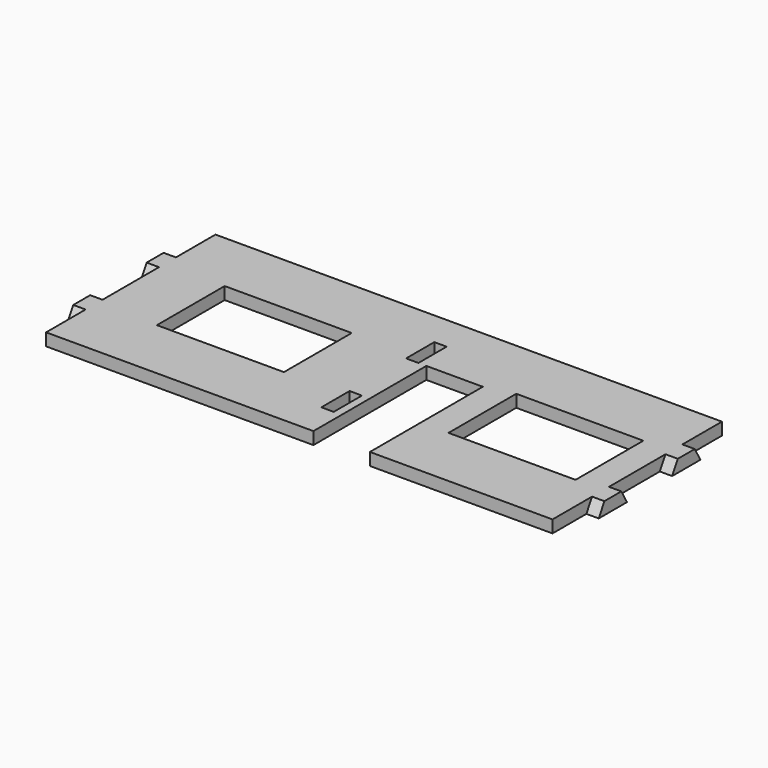
from build123d import *

# Parameters (mm, degrees)
F0_W     = 3.5
F0_H     = 10
F0_W_2   = 36
F0_H_2   = 24
F1_DEPTH = 3.5
F3_DEPTH = 3.5
F5_DEPTH = 3.5


with BuildPart() as f1:
    # F0 (on Top) → F1 (new body)
    with BuildSketch(Plane.XY):
        Polygon((19.218762, 12.900007), (19.218762, -27.099993), (74.468762, -27.099993), (74.468762, 32.900007), (-76.031238, 32.900007), (-76.031238, -27.099993), (3.218762, -27.099993), (3.218762, 12.900007), align=None)
        with Locations((-0.781238, -12.099993)):
            Rectangle(F0_W, F0_H, mode=Mode.SUBTRACT)
        with Locations((-37.531238, 2.900007)):
            Rectangle(F0_W_2, F0_H_2, mode=Mode.SUBTRACT)
        with Locations((-0.781238, 17.900007)):
            Rectangle(F0_W, F0_H, mode=Mode.SUBTRACT)
        with Locations((45.093762, 2.900007)):
            Rectangle(F0_W_2, F0_H_2, mode=Mode.SUBTRACT)
    extrude(amount=F1_DEPTH)

    # F2 (on face) → F3 (cut)
    with BuildSketch(Plane.YZ.offset(74.468762)):
        Polygon((-27.099993, 3.5), (-27.099993, 0), (-15.099993, 0), (-13.099993, 3.5), align=None)
        Polygon((-7.099993, 3.5), (-5.099993, 0), (10.900007, 0), (12.900007, 3.5), align=None)
        Polygon((18.900007, 3.5), (20.900007, 0), (32.900007, 0), (32.900007, 3.5), align=None)
    extrude(amount=-F3_DEPTH, mode=Mode.SUBTRACT)

    # F4 (on face) → F5 (cut)
    with BuildSketch(Plane(origin=(-76.031238, 0, 0), x_dir=(0, -1, 0), z_dir=(-1, 0, 0))):
        Polygon((27.099993, 3.5), (13.099993, 3.5), (15.099993, 0), (27.099993, 0), align=None)
        Polygon((7.099993, 3.5), (-12.900007, 3.5), (-10.900007, 0), (5.099993, 0), align=None)
        Polygon((-18.900007, 3.5), (-32.900007, 3.5), (-32.900007, 0), (-20.900007, 0), align=None)
    extrude(amount=-F5_DEPTH, mode=Mode.SUBTRACT)


solid = f1.part
